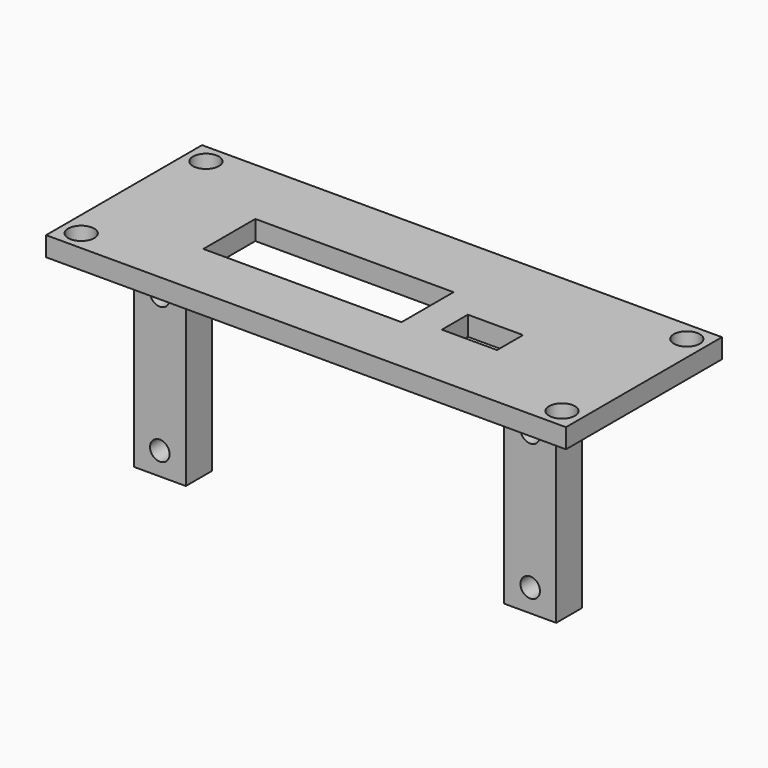
from build123d import *

# Parameters (mm, degrees)
SKETCH_W     = 80
SKETCH_H     = 30
SKETCH_R     = 2
SKETCH_W_2   = 8.5
SKETCH_H_2   = 5
SKETCH_W_3   = 30.5
SKETCH_H_3   = 10
PAD_DEPTH    = 3
SKETCH002_W  = 8
SKETCH002_H  = 5
PAD001_DEPTH = 29
SKETCH003_R  = 1.5
POCKET_DEPTH = 30.001


with BuildPart() as part:
    # Sketch → Pad (new body)
    with BuildSketch(Plane.XY):
        with Locations((40, 15)):
            Rectangle(SKETCH_W, SKETCH_H)
        with Locations((3, 27)):
            Circle(SKETCH_R, mode=Mode.SUBTRACT)
        with Locations((77, 27)):
            Circle(SKETCH_R, mode=Mode.SUBTRACT)
        with Locations((77, 3)):
            Circle(SKETCH_R, mode=Mode.SUBTRACT)
        with Locations((3, 3)):
            Circle(SKETCH_R, mode=Mode.SUBTRACT)
        with Locations((56.75, 13)):
            Rectangle(SKETCH_W_2, SKETCH_H_2, mode=Mode.SUBTRACT)
        with Locations((32.25, 14)):
            Rectangle(SKETCH_W_3, SKETCH_H_3, mode=Mode.SUBTRACT)
    extrude(amount=PAD_DEPTH)

    # Sketch002 (on Sketch) → Pad001 (join)
    with BuildSketch(Plane(origin=(0, 0, 0), x_dir=(1, 0, 0), z_dir=(0, 0, -1))):
        with Locations((11.5, -10)):
            Rectangle(SKETCH002_W, SKETCH002_H)
        with Locations((68.5, -10)):
            Rectangle(SKETCH002_W, SKETCH002_H)
    extrude(amount=PAD001_DEPTH)

    # Sketch003 → Pocket (cut, through all)
    with BuildSketch(Plane.XZ):
        with Locations((11.5, -4.5)):
            Circle(SKETCH003_R)
        with Locations((68.5, -4.5)):
            Circle(SKETCH003_R)
        with Locations((11.5, -25.5)):
            Circle(SKETCH003_R)
        with Locations((68.5, -25.5)):
            Circle(SKETCH003_R)
    extrude(amount=-POCKET_DEPTH, mode=Mode.SUBTRACT)


solid = part.part
